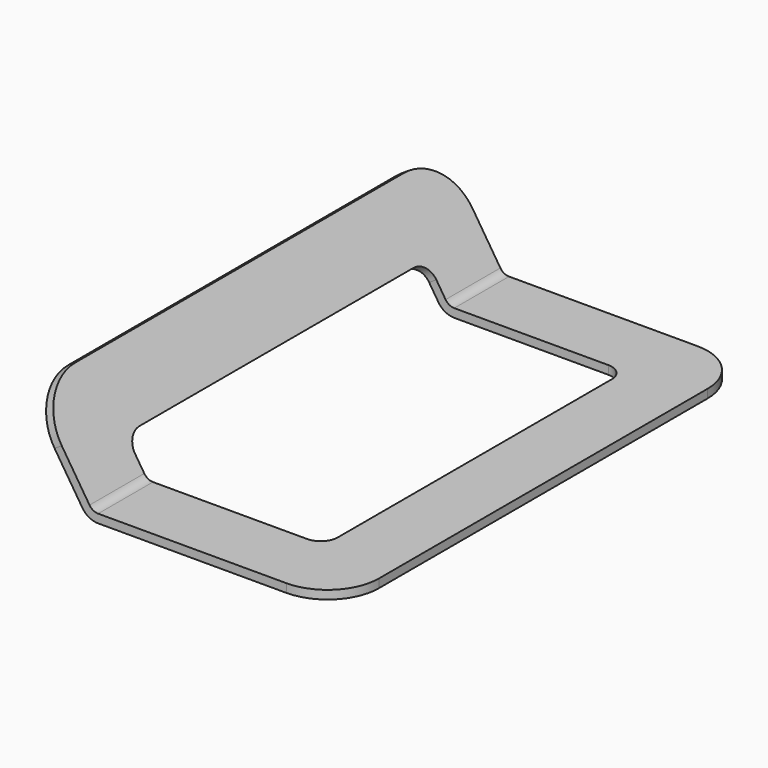
from build123d import *

# Parameters (mm, degrees)
F0_W      = 70
F0_H      = 2.5
F1_DEPTH  = 150
F2_W      = 52.524413
F2_H      = 110
F3_DEPTH  = 2.501
F4_W      = 110
F4_H      = 30
F5_DEPTH  = 17.506528
F6_DEPTH  = 74.667651
F7_R      = 2
F8_DEPTH  = 1.5
F9_R      = 3.75
F10_R     = 3.75
F11_DEPTH = 2
F12_R     = 15
F13_R     = 15
F14_R     = 5


with BuildPart() as f1:
    # F0 (on Front) → F1 (new body)
    with BuildSketch(Plane.XZ):
        Rectangle(F0_W, F0_H)
        with BuildLine():
            Line((-35, -1.25), (-35, 1.25))
            ThreePointArc((-35, 1.25), (-36.438277, 1.617252), (-37.524413, 2.629093))
            Line((-37.524413, 2.629093), (-39.62809, 1.278337))
            ThreePointArc((-39.62809, 1.278337), (-37.63684, -0.576704), (-35, -1.25))
        make_face()
        Polygon((-39.62809, 1.278337), (-37.524413, 2.629093), (-53.733482, 27.873223), (-55.83716, 26.522467), align=None)
    extrude(amount=F1_DEPTH)

    # F2 (on face) → F3 (cut, through all)
    with BuildSketch(Plane.XY.offset(1.25)):
        with Locations((-11.262206, -75)):
            Rectangle(F2_W, F2_H)
    extrude(amount=-F3_DEPTH, mode=Mode.SUBTRACT)

    # F4 (on face) → F5 (cut, through all)
    with BuildSketch(Plane(origin=(-25.374726, 0, -16.292924), x_dir=(0, 1, 0), z_dir=(0.841471, 0, 0.540302))):
        with Locations((-75, 17.486832)):
            Rectangle(F4_W, F4_H)
    extrude(amount=-F5_DEPTH, mode=Mode.SUBTRACT)

    # F4 (on face) → F6 (cut, through all)
    with BuildSketch(Plane(origin=(-25.374726, 0, -16.292924), x_dir=(0, 1, 0), z_dir=(0.841471, 0, 0.540302))):
        with Locations((-75, 17.486832)):
            Rectangle(F4_W, F4_H)
    extrude(amount=F6_DEPTH, mode=Mode.SUBTRACT)

    # F7 (on face) → F8 (join)
    with BuildSketch(Plane(origin=(-27.478403, 0, -17.64368), x_dir=(0, -1, 0), z_dir=(-0.841471, 0, -0.540302))):
        with Locations((10.75, 32.486832)):
            Circle(F7_R)
        with Locations((139.25, 32.486832)):
            Circle(F7_R)
    extrude(amount=F8_DEPTH)

    # F9 (on face) + F10 (on face) → F11 (join)
    with BuildSketch(Plane(origin=(-28.74061, 0, -18.454133), x_dir=(0, -1, 0), z_dir=(-0.841471, 0, -0.540302))):
        with Locations((10.75, 32.486832)):
            Circle(F9_R)
    with BuildSketch(Plane(origin=(-28.74061, 0, -18.454133), x_dir=(0, -1, 0), z_dir=(-0.841471, 0, -0.540302))):
        with Locations((139.25, 32.486832)):
            Circle(F10_R)
    extrude(amount=F11_DEPTH)

    # F12
    f12_edges = [f1.edges().sort_by_distance(p)[0] for p in [
        (-54.785321, 0, 27.197845),
    ]]
    fillet(f12_edges, radius=F12_R)

    # F13
    f13_edges = [f1.edges().sort_by_distance(p)[0] for p in [
        (-54.785321, -150, 27.197845),
        (35, -150, 0),
        (35, 0, 0),
    ]]
    fillet(f13_edges, radius=F13_R)

    # F14
    f14_edges = [f1.edges().sort_by_distance(p)[0] for p in [
        (-43.979275, -20, 10.368425),
        (15, -20, 0),
        (15, -130, 0),
        (-43.979275, -130, 10.368425),
    ]]
    fillet(f14_edges, radius=F14_R)


solid = f1.part
